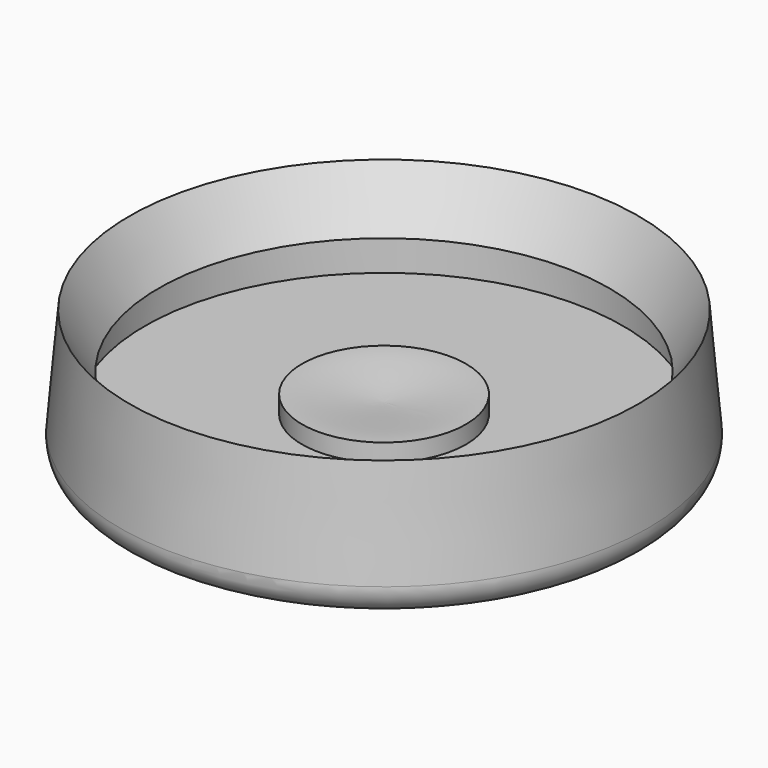
from build123d import *

# Parameters (mm, degrees)
F2_R = 2


with BuildPart() as f1:
    # F0 (on Front) → F1 (revolve)
    with BuildSketch(Plane.XZ):
        Polygon((0, 3.247135), (0, 0), (19.5, 0), (18.628443, 9.961947), (16.5, 5.997135), (17.5, 5.997135), (17.5, 3.247135), (6, 3.247135), align=None)
        with BuildLine():
            Line((0, 4.00679), (0, 3.247135))
            Line((0, 3.247135), (6, 3.247135))
            Line((6, 3.247135), (6, 4.544039))
            add(Edge.make_bspline(
                [(0, 4.00679), (1.458932, 4.00679), (4.541068, 4.544039), (6, 4.544039)],
                knots=[0, 0, 0, 0, 6.024005, 6.024005, 6.024005, 6.024005], degree=3))
        make_face()
    revolve(axis=Axis((0, 0, 1.623568), (0, 0, -1)))

    # F2
    f2_edges = [f1.edges().sort_by_distance(p)[0] for p in [
        (-19.5, 0, 0),
    ]]
    fillet(f2_edges, radius=F2_R)


solid = f1.part
